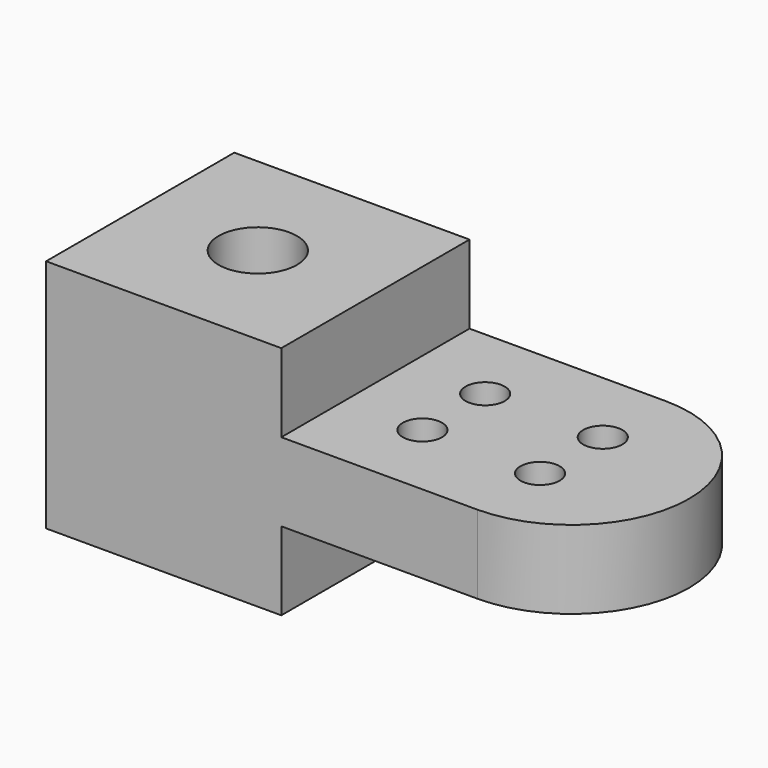
from build123d import *

# Parameters (mm, degrees)
F0_W     = 38.1
F0_H     = 38.1
F0_R     = 6.35
F1_DEPTH = 19.05
F2_R     = 3.175
F3_DEPTH = 6.35


with BuildPart() as f1:
    # F0 (on Top) → F1 (new body, symmetric)
    with BuildSketch(Plane.XY):
        Rectangle(F0_W, F0_H)
        Circle(F0_R, mode=Mode.SUBTRACT)
    extrude(amount=F1_DEPTH, both=True)

    # F2 (on Top) → F3 (join, symmetric)
    with BuildSketch(Plane.XY):
        with BuildLine():
            Line((50.812036, 19.05), (19.05, 19.05))
            Line((19.05, 19.05), (19.05, -19.05))
            Line((19.05, -19.05), (50.812036, -19.05))
            ThreePointArc((50.812036, -19.05), (69.862036, 0), (50.812036, 19.05))
        make_face()
        with Locations((31.75, -6.35)):
            Circle(F2_R, mode=Mode.SUBTRACT)
        with Locations((50.8, -6.35)):
            Circle(F2_R, mode=Mode.SUBTRACT)
        with Locations((31.75, 6.35)):
            Circle(F2_R, mode=Mode.SUBTRACT)
        with Locations((50.8, 6.35)):
            Circle(F2_R, mode=Mode.SUBTRACT)
    extrude(amount=F3_DEPTH, both=True)


solid = f1.part
